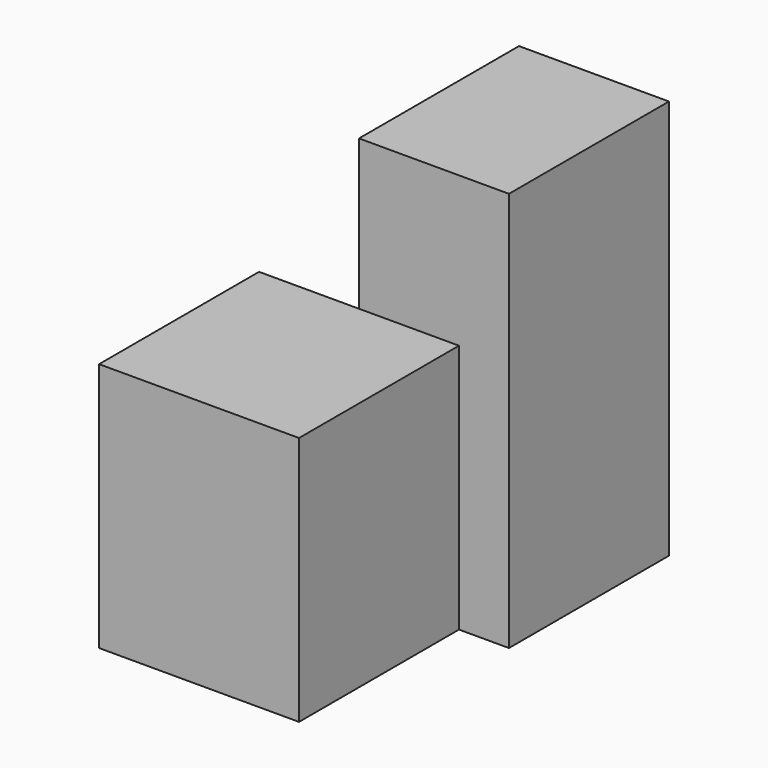
from build123d import *

# Parameters (mm, degrees)
F0_W     = 20
F0_H     = 25
F1_DEPTH = 20
F2_W     = 20
F2_H     = 40
F3_DEPTH = 15


with BuildPart() as f1:
    # F0 (on Front) → F1 (new body)
    with BuildSketch(Plane.XZ):
        Rectangle(F0_W, F0_H)
    extrude(amount=F1_DEPTH)


with BuildPart() as f3:
    # F2 (on Right) → F3 (new body)
    with BuildSketch(Plane.YZ):
        with Locations((10, 7.5)):
            Rectangle(F2_W, F2_H)
    extrude(amount=F3_DEPTH)


solid = Compound([f1.part, f3.part])
